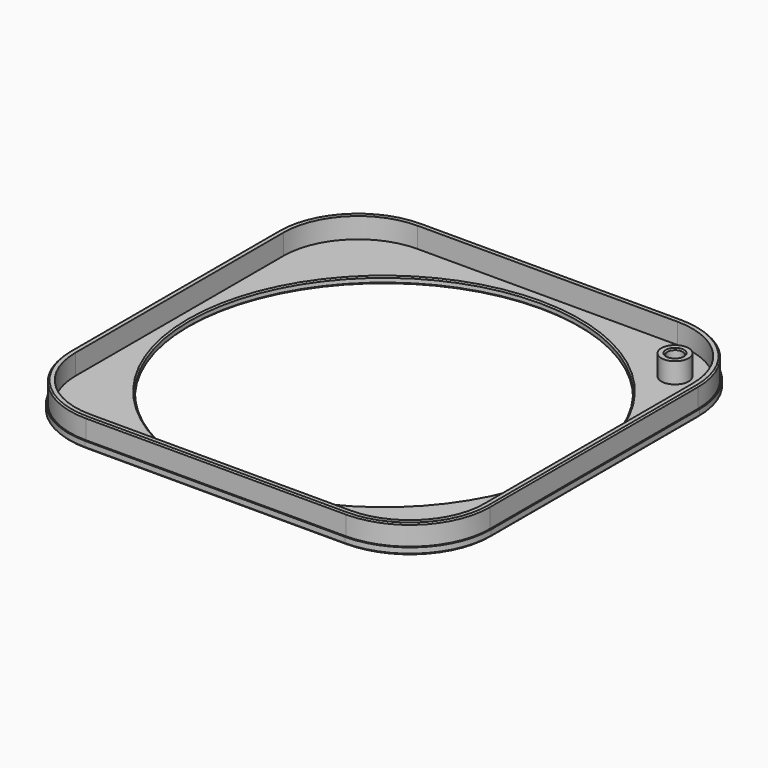
from build123d import *

# Parameters (mm, degrees)
SKETCH_R      = 2.25
SKETCH_R_2    = 57
PAD_DEPTH     = 2
PAD006_DEPTH  = 8
SKETCH014_R   = 4
SKETCH014_R_2 = 2.25
PAD009_DEPTH  = 6
CHAMFER_SIZE  = 0.4


with BuildPart() as part:
    # Sketch → Pad (new body)
    with BuildSketch(Plane.XY):
        with BuildLine():
            Line((-61.9, 38.1), (-61.9, -38.1))
            ThreePointArc((-61.9, -38.1), (-54.929141, -54.929141), (-38.1, -61.9))
            Line((-38.1, -61.9), (38.1, -61.9))
            ThreePointArc((38.1, -61.9), (54.929141, -54.929141), (61.9, -38.1))
            Line((61.9, -38.1), (61.9, 38.1))
            ThreePointArc((61.9, 38.1), (54.929141, 54.929141), (38.1, 61.9))
            Line((38.1, 61.9), (-38.1, 61.9))
            ThreePointArc((-38.1, 61.9), (-54.929141, 54.929141), (-61.9, 38.1))
        make_face()
        with Locations((47.376154, 47.376154)):
            Circle(SKETCH_R, mode=Mode.SUBTRACT)
        Circle(SKETCH_R_2, mode=Mode.SUBTRACT)
    extrude(amount=PAD_DEPTH)

    # Sketch008 → Pad006 (join)
    with BuildSketch(Plane.XY):
        with BuildLine():
            Line((-61.5, 38.1), (-61.5, -38.1))
            ThreePointArc((-61.5, -38.1), (-54.646299, -54.646299), (-38.1, -61.5))
            Line((-38.1, -61.5), (38.1, -61.5))
            ThreePointArc((38.1, -61.5), (54.646299, -54.646299), (61.5, -38.1))
            Line((61.5, -38.1), (61.5, 38.1))
            ThreePointArc((61.5, 38.1), (54.646299, 54.646299), (38.1, 61.5))
            Line((38.1, 61.5), (-38.1, 61.5))
            ThreePointArc((-38.1, 61.5), (-54.646299, 54.646299), (-61.5, 38.1))
        make_face()
        with BuildLine():
            Line((-59.9, 38.1), (-59.9, -38.1))
            ThreePointArc((-59.9, -38.1), (-53.514928, -53.514928), (-38.1, -59.9))
            Line((-38.1, -59.9), (38.1, -59.9))
            ThreePointArc((38.1, -59.9), (53.514928, -53.514928), (59.9, -38.1))
            Line((59.9, -38.1), (59.9, 38.1))
            ThreePointArc((59.9, 38.1), (53.514928, 53.514928), (38.1, 59.9))
            Line((38.1, 59.9), (-38.1, 59.9))
            ThreePointArc((-38.1, 59.9), (-53.514928, 53.514928), (-59.9, 38.1))
        make_face(mode=Mode.SUBTRACT)
    extrude(amount=PAD006_DEPTH)

    # Sketch014 (on Face27 of Pad006) → Pad009 (join)
    with BuildSketch(Plane.XY.offset(2)):
        with Locations((47.376154, 47.376154)):
            Circle(SKETCH014_R)
        with Locations((47.376154, 47.376154)):
            Circle(SKETCH014_R_2, mode=Mode.SUBTRACT)
    extrude(amount=PAD009_DEPTH)

    # Chamfer
    chamfer_edges = [part.edges().sort_by_distance(p)[0] for p in [
        (-57, 0, 2),
        (45.126154, 47.376154, 8),
        (0, 61.5, 8),
        (-61.9, 0, 0),
        (-54.929141, 54.929141, 0),
        (0, 61.9, 0),
        (54.929141, 54.929141, 0),
        (61.9, 0, 0),
        (54.929141, -54.929141, 0),
        (0, -61.9, 0),
        (-54.929141, -54.929141, 0),
        (-57, 0, 0),
        (45.126154, 47.376154, 0),
    ]]
    chamfer(chamfer_edges, length=CHAMFER_SIZE)


solid = part.part
